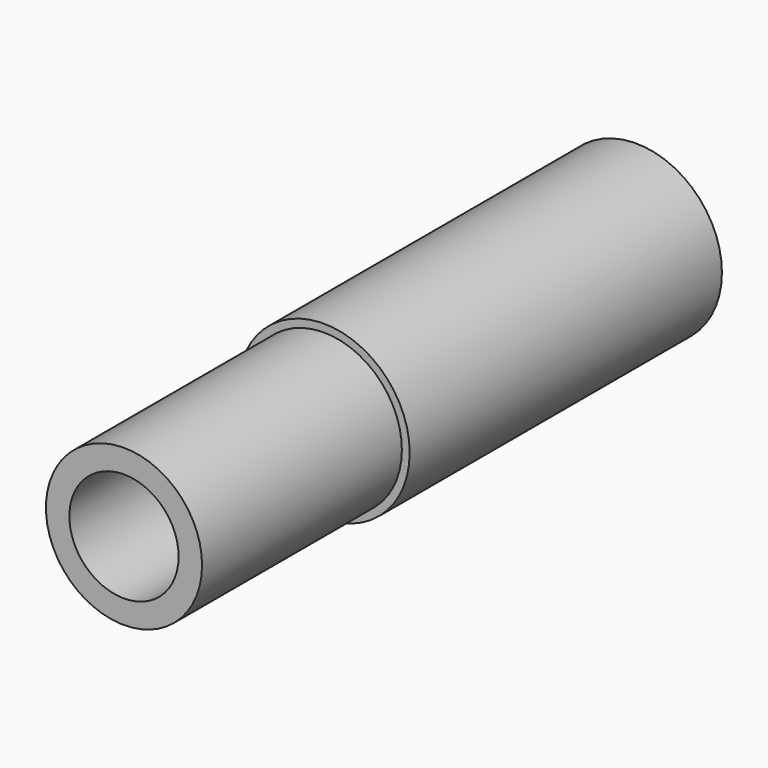
from build123d import *

# Parameters (mm, degrees)
F0_R     = 5
F0_R_2   = 3.5
F1_DEPTH = 16
F0_R_3   = 5.5
F2_DEPTH = 25


with BuildPart() as f1:
    # F0 (on Front) → F1 (new body)
    with BuildSketch(Plane.XZ):
        Circle(F0_R)
        Circle(F0_R_2, mode=Mode.SUBTRACT)
    extrude(amount=F1_DEPTH)


with BuildPart() as f2:
    # F0 (on Front) → F2 (new body)
    with BuildSketch(Plane.XZ):
        Circle(F0_R_3)
        Circle(F0_R, mode=Mode.SUBTRACT)
    extrude(amount=-F2_DEPTH)


solid = Compound([f1.part, f2.part])
